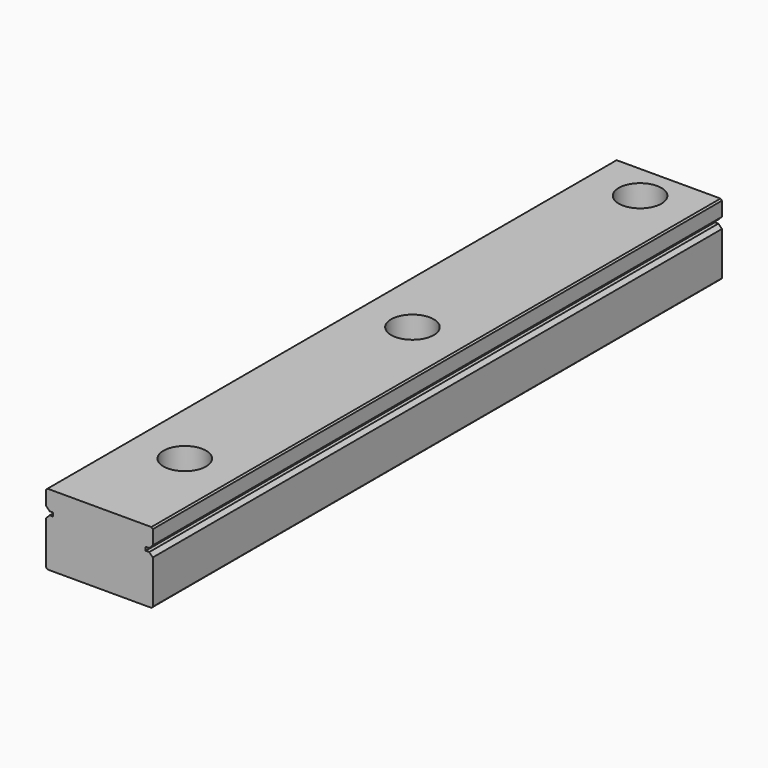
from build123d import *

# Parameters (mm, degrees)
F1_DEPTH = 100
F2_R     = 1.75
F3_DEPTH = 10.001
F2_R_2   = 3
F4_DEPTH = 4.5


with BuildPart() as f1:
    # F0 (on Front) → F1 (new body)
    with BuildSketch(Plane.XZ):
        Polygon((6.980425, 12.446069), (6.980425, 6.346069), (7.180425, 6.146069), (21.780425, 6.146069), (21.980425, 6.346069), (21.980425, 12.446069), (21.480425, 12.946069), (20.980425, 12.946069), (20.980425, 13.446069), (21.480425, 13.446069), (21.980425, 13.946069), (21.980425, 15.946069), (21.780425, 16.146069), (7.180425, 16.146069), (6.980425, 15.946069), (6.980425, 13.946069), (7.480425, 13.446069), (7.980425, 13.446069), (7.980425, 12.946069), (7.480425, 12.946069), align=None)
    extrude(amount=F1_DEPTH)

    # F2 (on face) → F3 (cut, through all)
    with BuildSketch(Plane.XY.offset(16.146069)):
        with Locations((14.480425, -85)):
            Circle(F2_R)
        with Locations((14.480425, -45)):
            Circle(F2_R)
        with Locations((14.480425, -5)):
            Circle(F2_R)
    extrude(amount=-F3_DEPTH, mode=Mode.SUBTRACT)

    # F2 (on face) → F4 (cut)
    with BuildSketch(Plane.XY.offset(16.146069)):
        with Locations((14.480425, -85)):
            Circle(F2_R_2)
        with Locations((14.480425, -85)):
            Circle(F2_R, mode=Mode.SUBTRACT)
        with Locations((14.480425, -45)):
            Circle(F2_R_2)
        with Locations((14.480425, -45)):
            Circle(F2_R, mode=Mode.SUBTRACT)
        with Locations((14.480425, -5)):
            Circle(F2_R_2)
        with Locations((14.480425, -5)):
            Circle(F2_R, mode=Mode.SUBTRACT)
    extrude(amount=-F4_DEPTH, mode=Mode.SUBTRACT)


solid = f1.part
